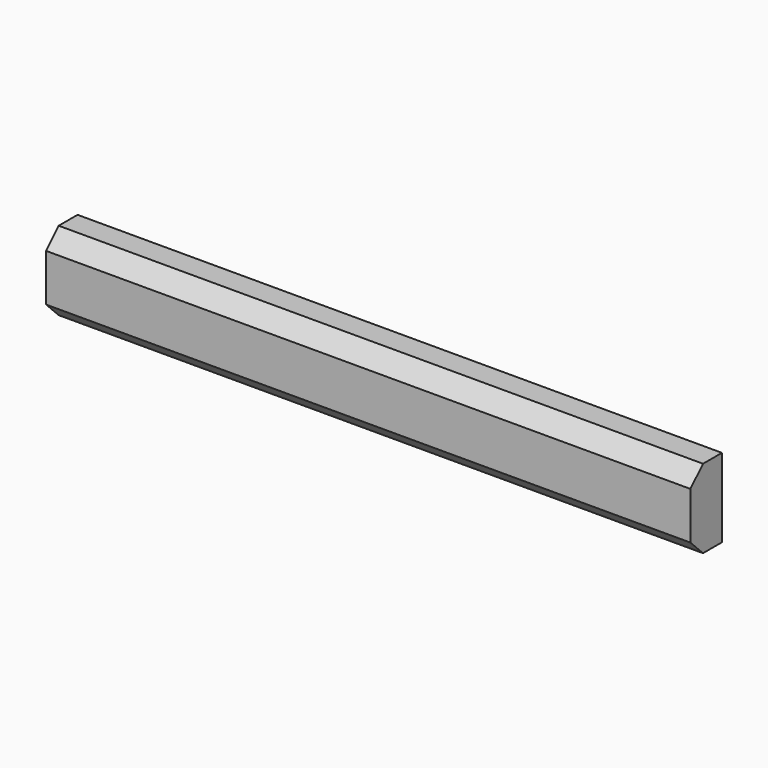
from build123d import *

# Parameters (mm, degrees)
F0_W     = 207.8
F0_H     = 25.4
F1_DEPTH = 12.7
F2_SIZE  = 5.08


with BuildPart() as f1:
    # F0 (on Front) → F1 (new body)
    with BuildSketch(Plane.XZ):
        with Locations((-6.365545, -14.574558)):
            Rectangle(F0_W, F0_H)
    extrude(amount=F1_DEPTH)

    # F2
    f2_edges = [f1.edges().sort_by_distance(p)[0] for p in [
        (-6.365545, -12.7, -1.874558),
        (-6.365545, -12.7, -27.274558),
    ]]
    chamfer(f2_edges, length=F2_SIZE)


solid = f1.part
